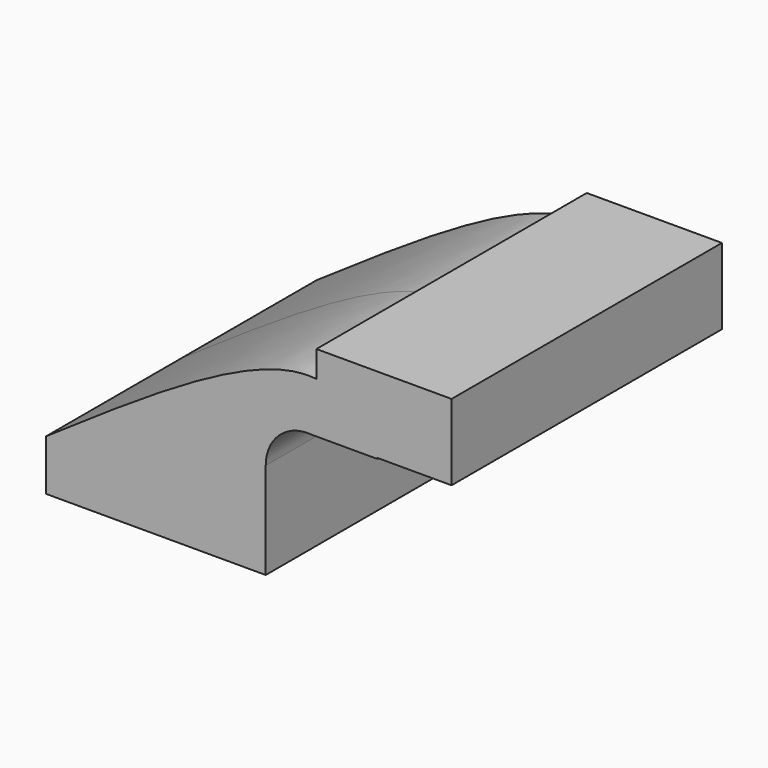
from build123d import *

# Parameters (mm, degrees)
F1_DEPTH = 63.5


with BuildPart() as f1:
    # F0 (on Front) → F1 (new body, symmetric)
    with BuildSketch(Plane.XZ):
        Polygon((60.325, 71.4502), (60.325, 61.5735440695), (83.1756805858, 61.5735440695), (83.1756805858, 42.8752), (111.125, 42.8752), (111.125, 71.4502), align=None)
        Polygon((22.225, 9.525), (-41.275, 9.525), (-41.275, -9.525), (41.275, -9.525), (41.275, 9.525), align=None)
        with BuildLine():
            add(Edge.make_bspline(
                [(-41.275, 9.525), (-1.6819942421, 36.6237502339), (37.9110115159, 63.7225004679), (59.4295399317, 61.5735440695)],
                knots=[0, 0, 0, 0, 0.658665778, 0.658665778, 0.658665778, 0.658665778], degree=3))
            Line((-41.275, 9.525), (22.225, 9.525))
            Line((22.225, 9.525), (22.225, 26.7230157708))
            ThreePointArc((22.225, 26.7230157708), (33.2738330873, 52.2119207798), (59.4295399317, 61.5735440695))
        make_face()
        with BuildLine():
            Line((83.1756805858, 42.8752), (82.928727027, 42.8752))
            add(Edge.make_bspline(
                [(82.928727027, 42.8752), (83.0110521067, 42.7579930507), (83.0933663462, 42.6407685601), (83.1756805858, 42.5235440695)],
                knots=[0.9955383683, 0.9955383683, 0.9955383683, 0.9955383683, 1, 1, 1, 1], degree=3))
            Line((83.1756805858, 42.5235440695), (83.1756805858, 42.8752))
        make_face()
        with BuildLine():
            Line((60.325, 61.5735440695), (59.4295399317, 61.5735440695))
            add(Edge.make_bspline(
                [(59.4295399317, 61.5735440695), (59.7315548679, 61.5433832278), (60.030009415, 61.5074610458), (60.325, 61.4659335595)],
                knots=[0.658665778, 0.658665778, 0.658665778, 0.658665778, 0.6679102253, 0.6679102253, 0.6679102253, 0.6679102253], degree=3))
            Line((60.325, 61.4659335595), (60.325, 61.5735440695))
        make_face()
        with BuildLine():
            Line((83.1756805858, 61.5735440695), (60.325, 61.5735440695))
            Line((60.325, 61.5735440695), (60.325, 61.4659335595))
            add(Edge.make_bspline(
                [(60.325, 61.4659335595), (70.7796236232, 59.9941773031), (76.8834021634, 51.4819828541), (82.928727027, 42.8752)],
                knots=[0.6679102253, 0.6679102253, 0.6679102253, 0.6679102253, 0.9955383683, 0.9955383683, 0.9955383683, 0.9955383683], degree=3))
            Line((82.928727027, 42.8752), (83.1756805858, 42.8752))
            Line((83.1756805858, 42.8752), (83.1756805858, 61.5735440695))
        make_face()
        with BuildLine():
            Line((22.225, 26.7230157708), (22.225, 9.525))
            Line((22.225, 9.525), (41.275, 9.525))
            Line((41.275, 9.525), (41.275, 26.7230157708))
            ThreePointArc((41.275, 26.7230157708), (46.4815063401, 38.4788172334), (58.6858810115, 42.5235440695))
            Line((58.6858810115, 42.5235440695), (83.1756805858, 42.5235440695))
            add(Edge.make_bspline(
                [(82.928727027, 42.8752), (83.0110521067, 42.7579930507), (83.0933663462, 42.6407685601), (83.1756805858, 42.5235440695)],
                knots=[0.9955383683, 0.9955383683, 0.9955383683, 0.9955383683, 1, 1, 1, 1], degree=3))
            Line((82.928727027, 42.8752), (60.325, 42.8752))
            Line((60.325, 42.8752), (60.325, 61.4659335595))
            add(Edge.make_bspline(
                [(59.4295399317, 61.5735440695), (59.7315548679, 61.5433832278), (60.030009415, 61.5074610458), (60.325, 61.4659335595)],
                knots=[0.658665778, 0.658665778, 0.658665778, 0.658665778, 0.6679102253, 0.6679102253, 0.6679102253, 0.6679102253], degree=3))
            ThreePointArc((59.4295399317, 61.5735440695), (33.2738330873, 52.2119207798), (22.225, 26.7230157708))
        make_face()
        with BuildLine():
            add(Edge.make_bspline(
                [(60.325, 61.4659335595), (70.7796236232, 59.9941773031), (76.8834021634, 51.4819828541), (82.928727027, 42.8752)],
                knots=[0.6679102253, 0.6679102253, 0.6679102253, 0.6679102253, 0.9955383683, 0.9955383683, 0.9955383683, 0.9955383683], degree=3))
            Line((60.325, 61.4659335595), (60.325, 42.8752))
            Line((60.325, 42.8752), (82.928727027, 42.8752))
        make_face()
    extrude(amount=F1_DEPTH, both=True)


solid = f1.part
